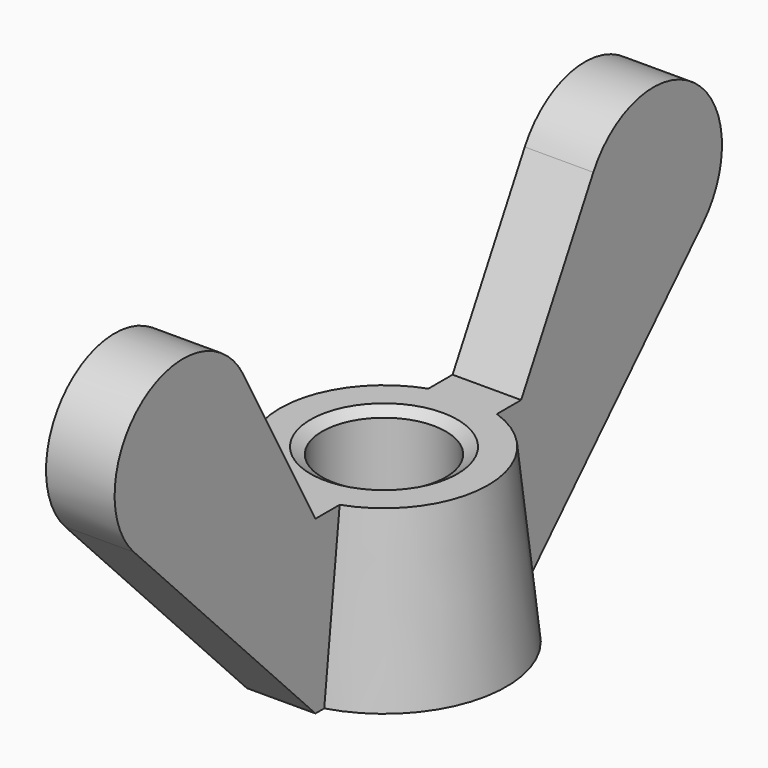
from build123d import *

# Parameters (mm, degrees)
PAD_DEPTH = 2.8


with BuildPart() as pad:
    # Sketch001 → Pad (new body, symmetric)
    with BuildSketch(Plane.YZ):
        with BuildLine():
            Line((6.5, 0), (6.5, 14))
            Line((6.5, 14), (10.5, 14))
            Line((10.5, 14), (17.86865, 27.377357))
            ThreePointArc((29.028201, 19.12997), (28.160419, 29.629469), (17.86865, 27.377357))
            Line((10.5, 0), (29.028201, 19.12997))
            Line((6.5, 0), (10.5, 0))
        make_face()
        with BuildLine():
            Line((-29.028193, 19.12994), (-10.49996, 0))
            Line((-10.49996, 0), (-6.49996, 0))
            Line((-6.49996, 0), (-6.49996, 14))
            Line((-6.49996, 14), (-10.49996, 14))
            Line((-10.49996, 14), (-17.86865, 27.377335))
            ThreePointArc((-17.86865, 27.377335), (-28.160423, 29.629443), (-29.028193, 19.12994))
        make_face()
    extrude(amount=PAD_DEPTH, both=True)


with BuildPart() as obj1:
    # Sketch → Revolution (revolve)
    with BuildSketch(Plane.YZ):
        Polygon((6, 0), (5.055, 0.545596), (5.055, 13.454404), (6, 14), (8.5, 14), (10, 0), align=None)
    revolve(axis=Axis((0, 0, 0), (0, 0, 1)))

    # Fusion: union Pad
    add(pad.part)


solid = obj1.part
